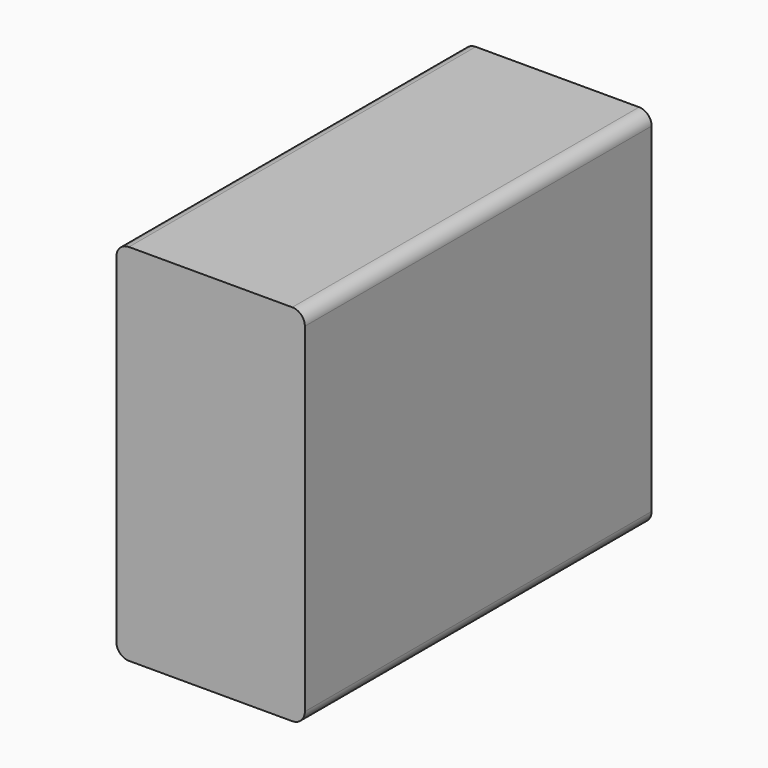
from build123d import *

# Parameters (mm, degrees)
F0_W     = 190.5
F0_H     = 368.3
F1_DEPTH = 438.15
F2_R     = 12.7


with BuildPart() as f1:
    # F0 (on Front) → F1 (new body)
    with BuildSketch(Plane.XZ):
        with Locations((95.25, 184.15)):
            Rectangle(F0_W, F0_H)
    extrude(amount=-F1_DEPTH)

    # F2
    f2_edges = [f1.edges().sort_by_distance(p)[0] for p in [
        (0, 219.075, 368.3),
        (190.5, 219.075, 368.3),
        (190.5, 219.075, 0),
        (0, 219.075, 0),
    ]]
    fillet(f2_edges, radius=F2_R)


solid = f1.part
